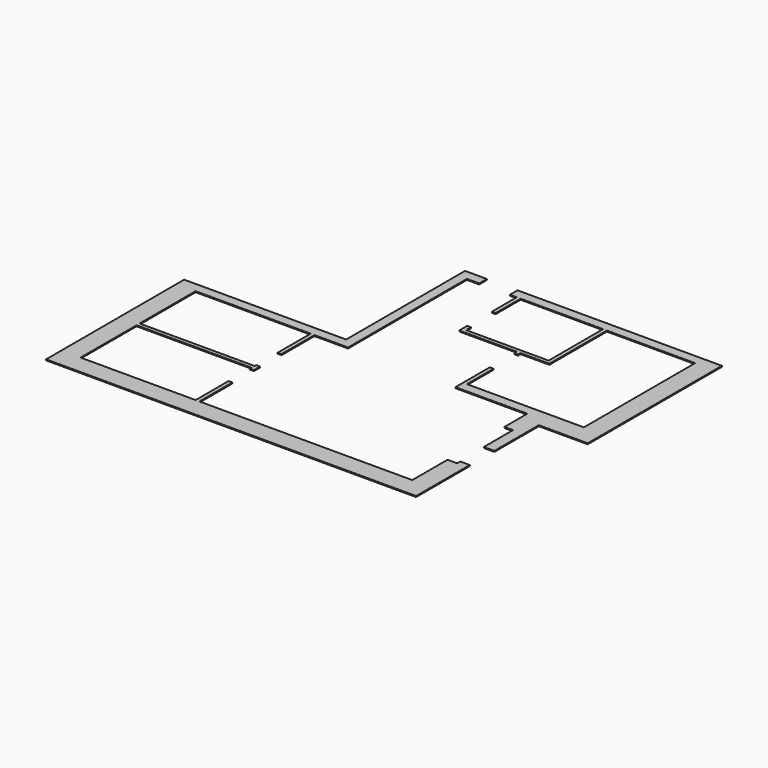
from build123d import *

# Parameters (mm, degrees)
F1_DEPTH = 25
F2_W     = 2800
F2_H     = 250
F3_DEPTH = 25


with BuildPart() as f1:
    # F0 (on Top) → F1 (new body)
    with BuildSketch(Plane.XY):
        Polygon((0, 4500), (0, 0), (9650, 0), (9650, 1750), (9400, 1750), (9400, 1650), (9150, 1650), (9150, 500), (3600, 500), (3600, 1575), (3500, 1575), (3500, 500), (500, 500), (500, 2325), (3500, 2325), (3500, 2275), (3600, 2275), (3600, 2475), (3500, 2475), (3500, 2425), (500, 2425), (500, 4250), (3500, 4250), (3500, 3175), (3600, 3175), (3600, 4250), (4775, 4250), (4775, 4500), (4475, 4500), (4475, 8125), (4795, 8125), (4795, 8375), (4225, 8375), (4225, 4500), align=None)
        Polygon((5575, 4250), (9150, 4250), (9150, 3500), (9375, 3500), (9375, 2550), (9600, 2550), (9650, 2550), (9650, 4000), (10925, 4000), (10925, 6350), (10425, 6350), (10425, 4500), (7375, 4500), (7375, 5370), (7275, 5370), (7275, 4500), (5575, 4500), align=None)
        Polygon((10425, 6350), (10925, 6350), (10925, 8375), (5595, 8375), (5595, 8125), (5775, 8125), (5775, 7310), (5875, 7310), (5875, 8125), (8025, 8125), (8025, 6350), (5875, 6350), (5875, 6510), (5775, 6510), (5775, 6250), (7275, 6250), (7275, 6170), (7375, 6170), (7375, 6250), (8125, 6250), (8125, 8125), (10425, 8125), align=None)
    extrude(amount=F1_DEPTH)

    # F2 (on face) → F3 (cut)
    with BuildSketch(Plane.XY.offset(25)):
        with Locations((5875, 4375)):
            Rectangle(F2_W, F2_H)
    extrude(amount=-F3_DEPTH, mode=Mode.SUBTRACT)


solid = f1.part
